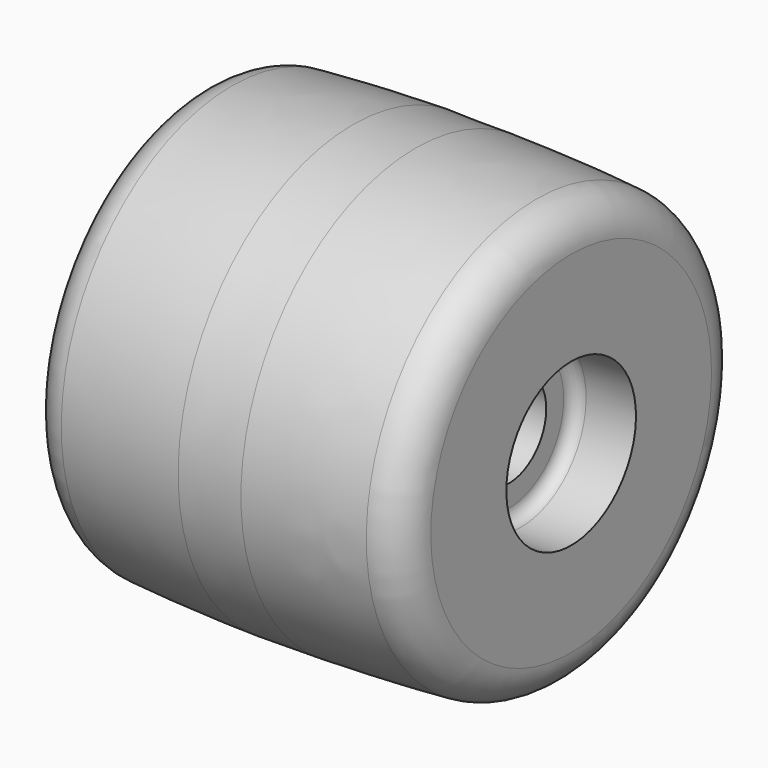
from build123d import *


with BuildPart() as f1:
    # F0 (on Front) → F1 (revolve)
    with BuildSketch(Plane.XZ):
        with BuildLine():
            Line((5, 35), (-5, 35.091645))
            ThreePointArc((-5, 35.091645), (-14.724964, 34.805296), (-24.437518, 34.23677))
            ThreePointArc((-24.437518, 34.23677), (-28.394605, 32.33777), (-30, 28.252743))
            Line((-30, 28.252743), (-30, 13.003623))
            Line((-30, 13.003623), (-22, 13.003623))
            ThreePointArc((-22, 13.003623), (-20.585786, 12.417836), (-20, 11.003623))
            Line((-20, 11.003623), (-20, 7.5))
            Line((-20, 7.5), (20, 7.5))
            Line((20, 7.5), (20, 11.003623))
            ThreePointArc((20, 11.003623), (20.585786, 12.417836), (22, 13.003623))
            Line((22, 13.003623), (30, 13.003623))
            Line((30, 13.003623), (30, 28.160863))
            ThreePointArc((30, 28.160863), (28.394647, 32.245846), (24.43764, 34.144881))
            ThreePointArc((24.43764, 34.144881), (14.725029, 34.713569), (5, 35))
        make_face()
    revolve(axis=Axis((2.171837, 0, 0), (1, 0, 0)))


solid = f1.part
